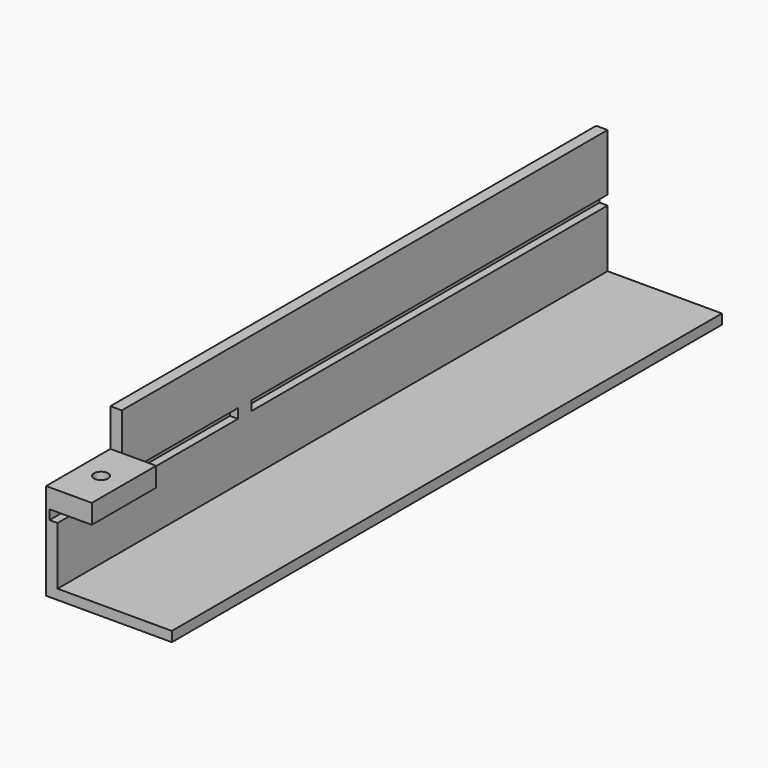
from build123d import *

# Parameters (mm, degrees)
F1_DEPTH  = 2.54
F3_DEPTH  = 7.62
F4_W      = 152.748324
F4_H      = 2.212828
F5_DEPTH  = 25.4
F6_R      = 1.577712
F7_DEPTH  = 4.293219
F8_W      = 152.748324
F8_H      = 2.120568
F9_DEPTH  = 1.778
F10_W     = 3.754646
F10_H     = 2.120568
F11_DEPTH = 1.778


with BuildPart() as f1:
    # F0 (on Right) → F1 (new body)
    with BuildSketch(Plane.YZ):
        Polygon((76.487139, 12.653703), (-58.410417, 12.653703), (-58.410417, 4.293219), (-76.261185, 4.293219), (-76.261185, -17.172892), (76.487139, -17.172892), align=None)
    extrude(amount=F1_DEPTH)

    # F2 (on face) → F3 (join)
    with BuildSketch(Plane.YZ.offset(2.54)):
        Polygon((-58.410417, 4.293219), (-76.261185, 4.293219), (-76.261185, 0), (-58.395639, 0), (-58.395639, 4.293219), align=None)
    extrude(amount=F3_DEPTH)

    # F4 (on face) → F5 (join)
    with BuildSketch(Plane.YZ.offset(2.54)):
        with Locations((0.112977, -16.066478)):
            Rectangle(F4_W, F4_H)
    extrude(amount=F5_DEPTH)

    # F6 (on face) → F7 (cut, through all)
    with BuildSketch(Plane.XY.offset(4.293219)):
        with Locations((5.08, -67.335801)):
            Circle(F6_R)
    extrude(amount=-F7_DEPTH, mode=Mode.SUBTRACT)

    # F8 (on face) → F9 (cut)
    with BuildSketch(Plane.YZ.offset(2.54)):
        with Locations((0.112977, -1.060284)):
            Rectangle(F8_W, F8_H)
    extrude(amount=-F9_DEPTH, mode=Mode.SUBTRACT)

    # F10 (on face) → F11 (join)
    with BuildSketch(Plane.YZ.offset(0.762)):
        with Locations((-24.277054, -1.060284)):
            Rectangle(F10_W, F10_H)
    extrude(amount=F11_DEPTH)


solid = f1.part
